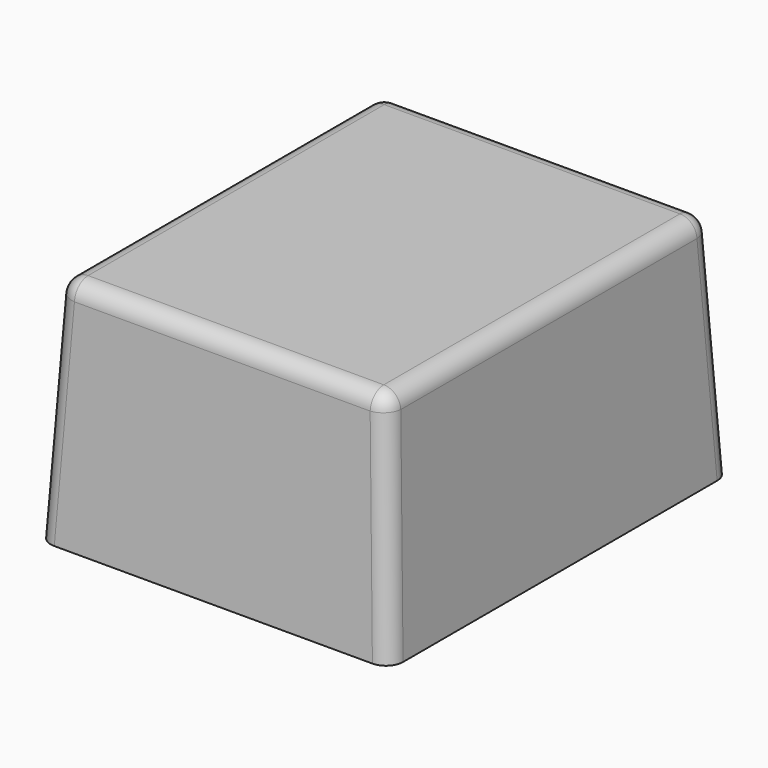
from build123d import *

# Parameters (mm, degrees)
F0_W     = 104.8938632011
F0_H     = 127.0728558302
F1_DEPTH = 68.58
F1_TAPER = 3
F2_R     = 5.08
F3_T     = -2.54


with BuildPart() as f1:
    # F0 (on Top) → F1 (new body)
    with BuildSketch(Plane.XY):
        with Locations((52.4469316006, 63.5364279151)):
            Rectangle(F0_W, F0_H)
    extrude(amount=F1_DEPTH, taper=F1_TAPER)

    # F2
    f2_edges = [f1.edges().sort_by_distance(p)[0] for p in [
        (103.0968, 1.797063, 34.29),
        (103.0968, 125.275793, 34.29),
        (1.797063, 125.275793, 34.29),
        (1.797063, 1.797063, 34.29),
        (3.594126, 63.536428, 68.58),
        (52.446932, 3.594126, 68.58),
        (101.299738, 63.536428, 68.58),
        (52.446932, 123.47873, 68.58),
    ]]
    fillet(f2_edges, radius=F2_R)

    # F3
    f3_openings = [f1.faces().sort_by_distance(p)[0] for p in [
        (52.446932, 63.536428, 0),
    ]]
    offset(amount=F3_T, openings=f3_openings)


solid = f1.part
